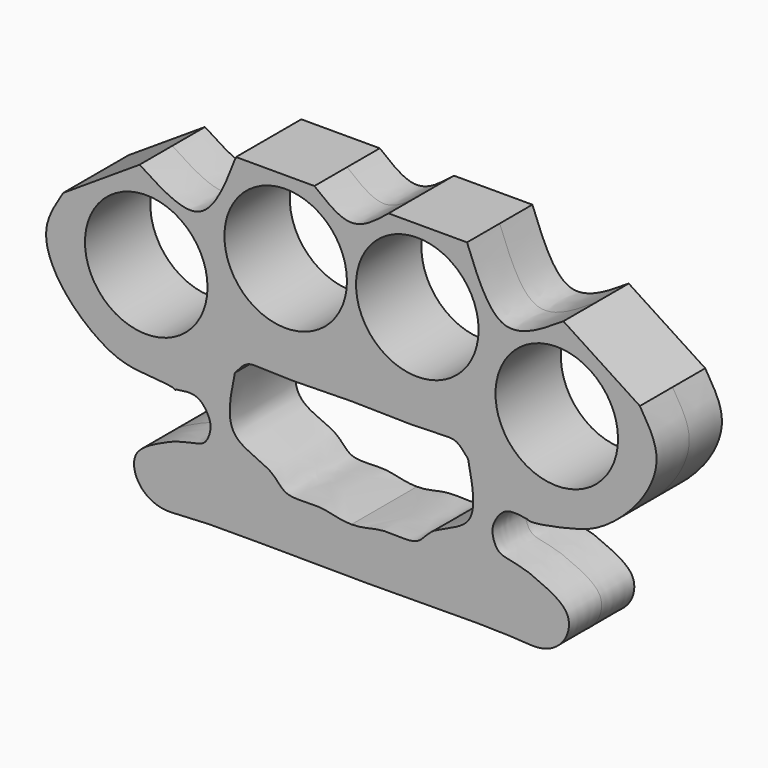
from build123d import *

# Parameters (mm, degrees)
F2_DEPTH = 5
F0_R     = 7.5
F3_DEPTH = 35.3
F5_DEPTH = 25


with BuildPart() as f2:
    # F1 (on Front) → F2 (new body, symmetric)
    with BuildSketch(Plane.XZ):
        with BuildLine():
            Line((-25.9376069811, 36.0487736567), (-35.3008142413, 29.9601348244))
            add(Edge.make_bspline(
                [(-35.3008142413, 29.9601348244), (-36.3237337536, 28.3217823731), (-38.3144583559, 25.1457721842), (-35.6620369665, 19.290740362), (-30.6703266368, 15.0905045369), (-26.8339267906, 13.5623448249), (-21.8614474141, 13.5920382471), (-21.5305853635, 13.148364611), (-21.5347700112, 13.2694611134)],
                knots=[0, 0, 0, 0, 0.1934626319, 0.3957552181, 0.6072074482, 0.785957031, 0.9671235873, 1, 1, 1, 1], degree=3))
            add(Edge.make_bspline(
                [(-21.5347700112, 13.2694611134), (-20.5863890801, 13.4303823269), (-18.7994612495, 13.7335877825), (-17.4347958478, 11.7789978997), (-17.1069678077, 10.4396824506), (-17.7972547008, 8.4906363466), (-19.3309676409, 8.2073172182), (-21.6527425772, 7.6835322606), (-23.0834138774, 6.9825186494), (-27.1142603351, 5.1871219274), (-26.3928995249, 1.4536516328), (-23.4532646942, -0.462288593), (-18.623846388, 0.3166118767), (-8.2163242623, 0), (0, 0)],
                knots=[0, 0, 0, 0, 0.075231052, 0.1415825521, 0.196546205, 0.2586029578, 0.3150878204, 0.3852016718, 0.4470256517, 0.5381291166, 0.6190242497, 0.6998644113, 0.795693706, 1, 1, 1, 1], degree=3))
            add(Edge.make_bspline(
                [(21.5347700112, 13.2694611134), (20.5863890801, 13.4303823269), (18.7994612495, 13.7335877825), (17.4347958478, 11.7789978997), (17.1069678077, 10.4396824506), (17.7972547008, 8.4906363466), (19.3309676409, 8.2073172182), (21.6527425772, 7.6835322606), (23.0834138774, 6.9825186494), (27.1142603351, 5.1871219274), (26.3928995249, 1.4536516328), (23.4532646942, -0.462288593), (18.623846388, 0.3166118767), (8.2163242623, 0), (0, 0)],
                knots=[0, 0, 0, 0, 0.075231052, 0.1415825521, 0.196546205, 0.2586029578, 0.3150878204, 0.3852016718, 0.4470256517, 0.5381291166, 0.6190242497, 0.6998644113, 0.795693706, 1, 1, 1, 1], degree=3))
            add(Edge.make_bspline(
                [(35.3008142413, 29.9601348244), (36.3507157185, 28.2785668827), (38.2385938322, 25.219708946), (35.6425801623, 19.3633264059), (30.5830741597, 15.0428649893), (26.9208177609, 13.9386133826), (21.8630198087, 12.9132219025), (21.5347700112, 13.2694611134)],
                knots=[0, 0, 0, 0, 0.1985656746, 0.4074920517, 0.6258852504, 0.8104977669, 1, 1, 1, 1], degree=3))
            Line((35.3008142413, 29.9601348244), (25.9376069811, 36.0487736567))
            add(Edge.make_bspline(
                [(25.9376069811, 36.0487736567), (23.3368794757, 34.3564344556), (17.9528112604, 30.8529264243), (15.4408910059, 37.3521797056), (14.1423320677, 40.7120249971)],
                knots=[0, 0, 0, 0, 0.4830413363, 1, 1, 1, 1], degree=3))
            Line((14.1423320677, 40.7120249971), (4.5384541154, 40.7120249971))
            add(Edge.make_bspline(
                [(-4.5384541154, 40.7120249971), (-3.0256360769, 39.4776351556), (0, 37.0031856195), (3.0256360769, 39.4776351556), (4.5384541154, 40.7120249971)],
                knots=[0, 0, 0, 0, 0.5, 1, 1, 1, 1], degree=3))
            Line((-4.5384541154, 40.7120249971), (-14.1423320677, 40.7120249971))
            add(Edge.make_bspline(
                [(-25.9376069811, 36.0487736567), (-23.3368794757, 34.3564344556), (-17.9528112604, 30.8529264243), (-15.4408910059, 37.3521797056), (-14.1423320677, 40.7120249971)],
                knots=[0, 0, 0, 0, 0.4830413363, 1, 1, 1, 1], degree=3))
        make_face()
    extrude(amount=F2_DEPTH, both=True)

    # F0 (on Front) → F3 (cut, symmetric)
    with BuildSketch(Plane.XZ):
        with Locations((-8.057015948, 31.7464284599)):
            Circle(F0_R)
        with Locations((-25.1259822398, 25.5395304412)):
            Circle(F0_R)
        with Locations((8.057015948, 31.7464284599)):
            Circle(F0_R)
        with Locations((25.1259822398, 25.5395304412)):
            Circle(F0_R)
    extrude(amount=F3_DEPTH, both=True, mode=Mode.SUBTRACT)

    # F4 (on face) → F5 (cut)
    with BuildSketch(Plane.XZ.offset(5)):
        with BuildLine():
            add(Edge.make_bspline(
                [(-14.2731592059, 17.4196157604), (-13.8148184411, 17.9615319918), (-12.9812612328, 18.9470829523), (-11.5063433704, 19.0349995975), (-7.7261707008, 18.7841874745), (-2.8974728043, 18.9148420766), (0, 18.9932417125)],
                knots=[0, 0, 0, 0, 0.1912823513, 0.3478738856, 0.6086900192, 1, 1, 1, 1], degree=3))
            add(Edge.make_bspline(
                [(-14.2731592059, 17.4196157604), (-14.8236574181, 14.7637948773), (-15.8207013406, 10.0206645675), (-9.6050888203, 8.738563978), (-8.2964333962, 5.846887606), (-3.7111548152, 6.7020117366), (-1.5022065813, 5.7138685381), (0, 5.7217567648)],
                knots=[0, 0, 0, 0, 0.2467599568, 0.4600328364, 0.6170681723, 0.8075299416, 0.9987222613, 0.9987222613, 0.9987222613, 0.9987222613], degree=3))
            add(Edge.make_bspline(
                [(14.2731592059, 17.4196157604), (14.8236574181, 14.7637948773), (15.8207013406, 10.0206645675), (9.6050888203, 8.738563978), (8.2964333962, 5.846887606), (3.7111548152, 6.7020117366), (1.5022065813, 5.7138685381), (0, 5.7217567648)],
                knots=[0, 0, 0, 0, 0.2467599568, 0.4600328364, 0.6170681723, 0.8075299416, 0.9987222613, 0.9987222613, 0.9987222613, 0.9987222613], degree=3))
            add(Edge.make_bspline(
                [(14.2731592059, 17.4196157604), (13.8148184411, 17.9615319918), (12.9812612328, 18.9470829523), (11.5063433704, 19.0349995975), (7.7261707008, 18.7841874745), (2.8974728043, 18.9148420766), (0, 18.9932417125)],
                knots=[0, 0, 0, 0, 0.1912823513, 0.3478738856, 0.6086900192, 1, 1, 1, 1], degree=3))
        make_face()
    extrude(amount=-F5_DEPTH, mode=Mode.SUBTRACT)


solid = f2.part
